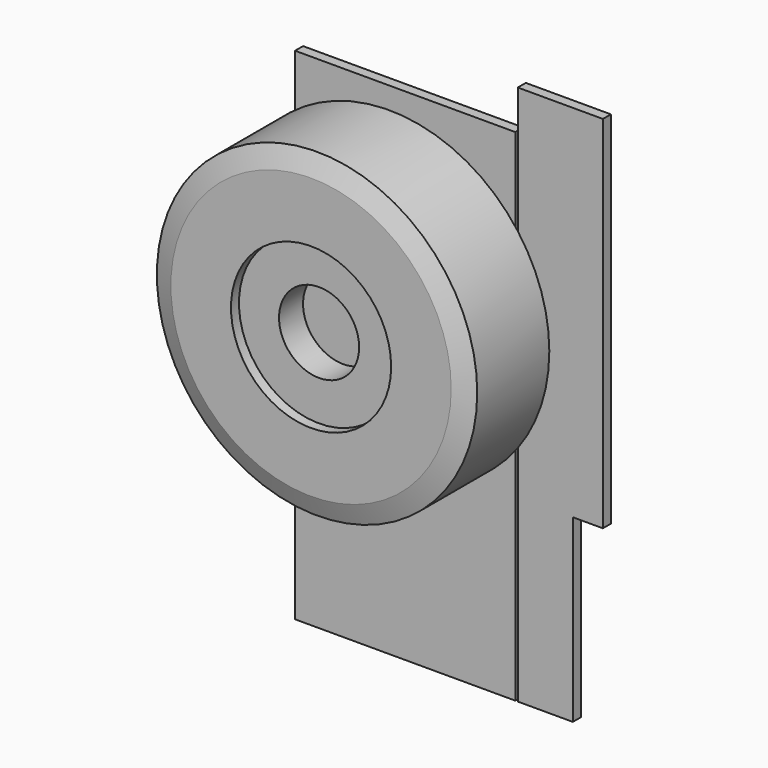
from build123d import *

# Parameters (mm, degrees)
F0_W     = 558.8
F0_H     = 1270
F1_DEPTH = 25.4
F3_START = 63.5
F2_R     = 406.4
F3_DEPTH = 266.7
F4_SIZE2 = 50.8
F4_SIZE  = 19.05
F5_R     = 203.2
F6_DEPTH = 25.4
F7_R     = 101.6
F8_DEPTH = 76.2


with BuildPart() as f1:
    # F0 (on Front) → F1 (new body)
    with BuildSketch(Plane.XZ):
        with Locations((279.4, 635)):
            Rectangle(F0_W, F0_H)
    extrude(amount=-F1_DEPTH)


with BuildPart() as f1b:
    # F0 (on Front) → F1, piece 2 (new body)
    with BuildSketch(Plane.XZ):
        Polygon((565.15, 1371.6), (565.15, 0), (704.85, 0), (704.85, 457.2), (781.05, 457.2), (781.05, 1371.6), align=None)
    extrude(amount=-F1_DEPTH)


with BuildPart() as f3:
    # F2 (on Front) → F3 (new body)
    with BuildSketch(Plane.XZ.offset(F3_START)):
        with Locations((304.8, 863.6)):
            Circle(F2_R)
    extrude(amount=F3_DEPTH)

    # F4
    f4_edges = [f3.edges().sort_by_distance(p)[0] for p in [
        (-101.6, -330.2, 863.6),
        (-101.6, -63.5, 863.6),
    ]]
    f4_side = f3.faces().sort_by_distance((-101.6, -196.85, 863.6))[0]
    chamfer(f4_edges, length=F4_SIZE, length2=F4_SIZE2, reference=f4_side)

    # F5 (on face) → F6 (cut)
    with BuildSketch(Plane.XZ.offset(330.2)):
        with Locations((304.8, 863.6)):
            Circle(F5_R)
    extrude(amount=-F6_DEPTH, mode=Mode.SUBTRACT)

    # F7 (on face) → F8 (cut)
    with BuildSketch(Plane.XZ.offset(304.8)):
        with Locations((304.8, 863.6)):
            Circle(F7_R)
    extrude(amount=-F8_DEPTH, mode=Mode.SUBTRACT)


solid = Compound([f1.part, f1b.part, f3.part])
